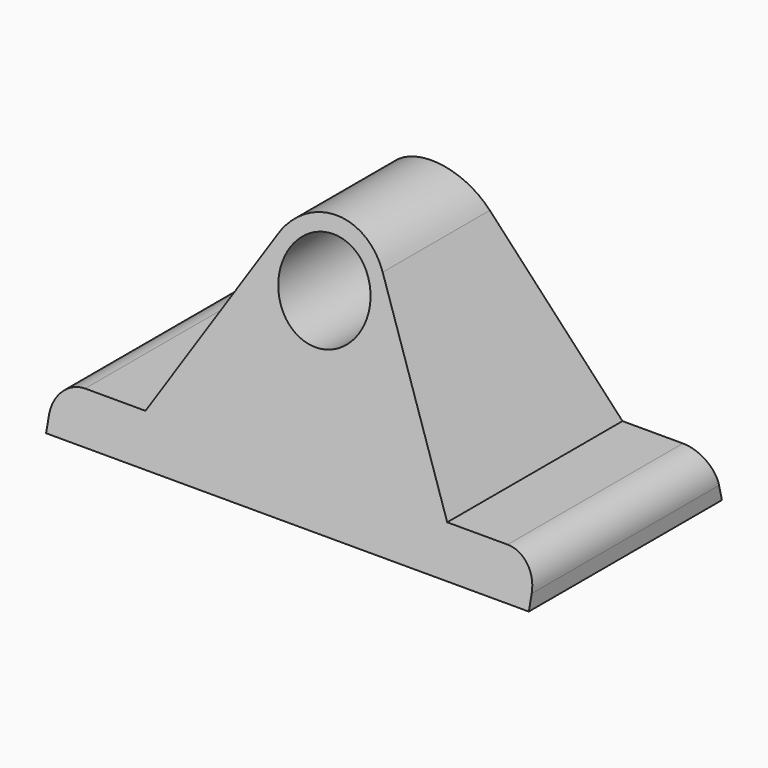
from build123d import *

# Parameters (mm, degrees)
F0_R     = 9.525
F1_DEPTH = 25.4
F3_DEPTH = 50.8


with BuildPart() as f1:
    # F0 (on Front) → F1 (new body, symmetric)
    with BuildSketch(Plane.XZ):
        with BuildLine():
            Line((-50.8, 0), (0, 0))
            Line((0, 0), (50.8, 0))
            Line((50.8, 0), (50.8, 3.048))
            ThreePointArc((50.8, 3.048), (48.940128, 7.538128), (44.45, 9.398))
            Line((44.45, 9.398), (31.75, 9.398))
            Line((31.75, 9.398), (10.998523, 45.340613))
            ThreePointArc((10.998523, 45.340613), (0, 51.690613), (-10.998523, 45.340613))
            Line((-10.998523, 45.340613), (-31.75, 9.398))
            Line((-31.75, 9.398), (-44.45, 9.398))
            ThreePointArc((-44.45, 9.398), (-48.940128, 7.538128), (-50.8, 3.048))
            Line((-50.8, 3.048), (-50.8, 0))
        make_face()
        with Locations((0, 38.990613)):
            Circle(F0_R, mode=Mode.SUBTRACT)
    extrude(amount=F1_DEPTH, both=True)

    # F2 (on Right) → F3 (cut, symmetric)
    with BuildSketch(Plane.YZ):
        Polygon((-25.4, 0), (-10.200965, 60.96), (-33.02, 60.96), (-33.02, -30.562151), align=None)
        Polygon((10.200965, 60.96), (33.02, -30.562151), (33.02, 60.96), align=None)
    extrude(amount=F3_DEPTH, both=True, mode=Mode.SUBTRACT)


solid = f1.part
